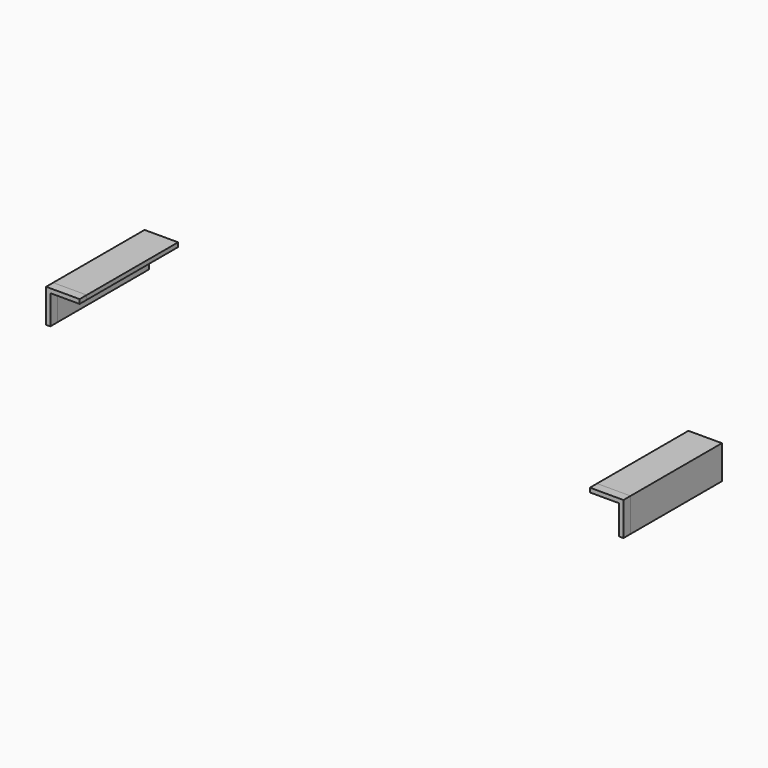
from build123d import *

# Parameters (mm, degrees)
F1_DEPTH = 145.05
F2_DEPTH = 134.6


with BuildPart() as f1:
    # F0 (on Front) → F1 (new body)
    with BuildSketch(Plane.XZ):
        Polygon((39.5, 0), (0, 0), (0, -39.5), (5, -39.5), (5, -5), (39.5, -5), align=None)
        Polygon((680.25, -39.5), (680.25, 0), (640.75, 0), (640.75, -5), (675.25, -5), (675.25, -39.5), align=None)
    extrude(amount=F1_DEPTH)


with BuildPart() as f2:
    # F0 (on Front) → F2 (new body)
    with BuildSketch(Plane.XZ):
        Polygon((39.5, 0), (0, 0), (0, -39.5), (5, -39.5), (5, -5), (39.5, -5), align=None)
        Polygon((680.25, -39.5), (680.25, 0), (640.75, 0), (640.75, -5), (675.25, -5), (675.25, -39.5), align=None)
    extrude(amount=F2_DEPTH)


solid = Compound([f1.part, f2.part])
